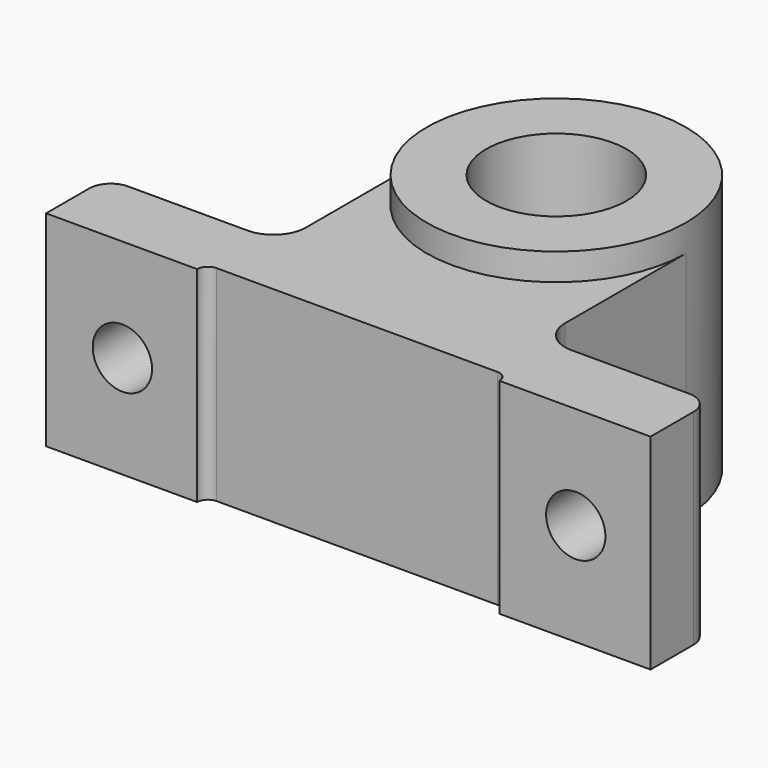
from build123d import *

# Parameters (mm, degrees)
F1_R     = 38.1
F1_R_2   = 26.9875
F1_R_3   = 20.6375
F2_DEPTH = 38.1
F3_DEPTH = 30.1625
F4_R     = 8.7249
F5_DEPTH = 254
F6_R     = 2.3749
F7_DEPTH = 50.8


with BuildPart() as f2:
    # F1 (on Top) → F2 (new body, symmetric)
    with BuildSketch(Plane.XY):
        Circle(F1_R)
        Circle(F1_R_2, mode=Mode.SUBTRACT)
        Circle(F1_R_2)
        Circle(F1_R_3, mode=Mode.SUBTRACT)
    extrude(amount=F2_DEPTH, both=True)

    # F0 (on Top) → F3 (join, symmetric)
    with BuildSketch(Plane.XY):
        with BuildLine():
            ThreePointArc((38.1, 0), (26.940768, -26.940768), (0, -38.1))
            Line((0, -38.1), (0, -73.025))
            Line((0, -73.025), (41.052193, -73.025))
            ThreePointArc((41.052193, -73.025), (43.297257, -73.954936), (44.227193, -76.2))
            Line((44.227193, -76.2), (88.677193, -76.2))
            Line((88.677193, -76.2), (88.677193, -60.325))
            ThreePointArc((88.677193, -60.325), (86.817321, -55.834872), (82.327193, -53.975))
            Line((82.327193, -53.975), (47.625, -53.975))
            ThreePointArc((47.625, -53.975), (40.889808, -51.185192), (38.1, -44.45))
            Line((38.1, -44.45), (38.1, 0))
        make_face()
        with BuildLine():
            Line((0, -73.025), (0, -38.1))
            ThreePointArc((0, -38.1), (-26.940768, -26.940768), (-38.1, 0))
            Line((-38.1, 0), (-38.1, -44.45))
            ThreePointArc((-38.1, -44.45), (-40.889808, -51.185192), (-47.625, -53.975))
            Line((-47.625, -53.975), (-82.772807, -53.975))
            ThreePointArc((-82.772807, -53.975), (-87.262935, -55.834872), (-89.122807, -60.325))
            Line((-89.122807, -60.325), (-89.122807, -76.2))
            Line((-89.122807, -76.2), (-44.672807, -76.2))
            ThreePointArc((-44.672807, -76.2), (-43.742871, -73.954936), (-41.497807, -73.025))
            Line((-41.497807, -73.025), (0, -73.025))
        make_face()
    extrude(amount=F3_DEPTH, both=True)

    # F4 (on Front) → F5 (cut)
    with BuildSketch(Plane.XZ):
        with Locations((-66.675, 0)):
            Circle(F4_R)
        with Locations((66.675, 0)):
            Circle(F4_R)
    extrude(amount=F5_DEPTH, mode=Mode.SUBTRACT)

    # F6 (on Front) → F7 (cut)
    with BuildSketch(Plane.XZ):
        Circle(F6_R)
    extrude(amount=-F7_DEPTH, mode=Mode.SUBTRACT)


solid = f2.part
